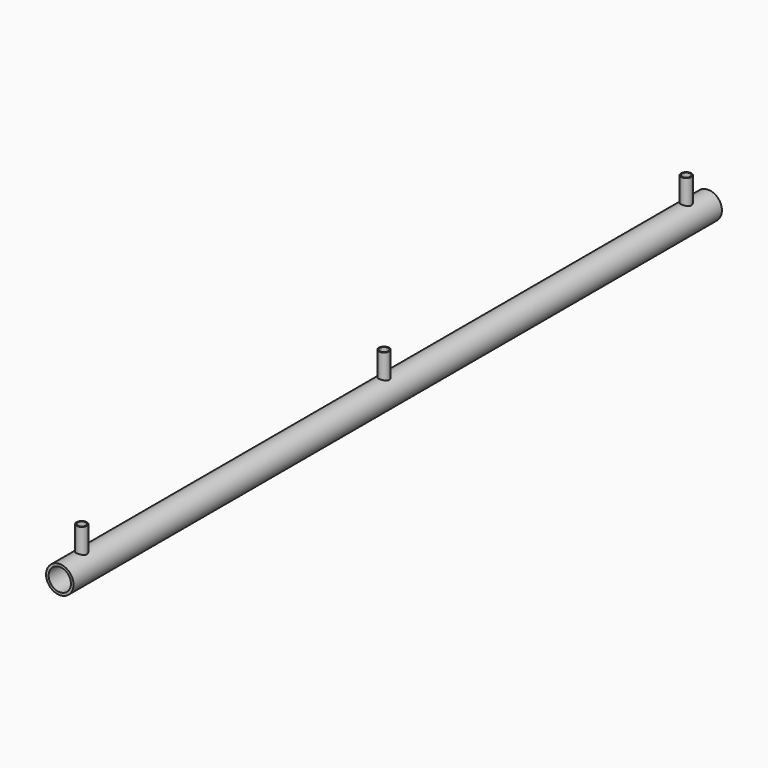
from build123d import *

# Parameters (mm, degrees)
SKETCH012_R   = 10.31875
PAD012_DEPTH  = 750
SKETCH008_R   = 4.7625
SKETCH008_R_2 = 3.8695
PAD008_DEPTH  = 25.4
SKETCH007_R   = 4.7625
SKETCH007_R_2 = 3.8695
PAD007_DEPTH  = 25.4
SKETCH006_R   = 4.7625
SKETCH006_R_2 = 3.8695
PAD006_DEPTH  = 25.4
SKETCH011_R   = 4.7625
PAD011_DEPTH  = 25.4
SKETCH010_R   = 4.7625
PAD010_DEPTH  = 25.4
SKETCH009_R   = 4.7625
PAD009_DEPTH  = 25.4
SKETCH005_R   = 12.7
SKETCH005_R_2 = 10.31875
PAD005_DEPTH  = 750


with BuildPart() as body012:
    # Sketch012 → Pad012 (new body)
    with BuildSketch(Plane.XZ):
        Circle(SKETCH012_R)
    extrude(amount=PAD012_DEPTH)


with BuildPart() as cut005:
    # Sketch008 → Pad008 (new body)
    with BuildSketch(Plane.XY):
        Circle(SKETCH008_R)
        Circle(SKETCH008_R_2, mode=Mode.SUBTRACT)
    extrude(amount=PAD008_DEPTH)


with BuildPart() as cut005_1:
    # Body008 placement: moved
    add(cut005.part.moved(Location((0, -724.6, 9.55))))

    # Cut005: cut Body012
    add(body012.part, mode=Mode.SUBTRACT)


with BuildPart() as cut004:
    # Sketch007 → Pad007 (new body)
    with BuildSketch(Plane.XY):
        Circle(SKETCH007_R)
        Circle(SKETCH007_R_2, mode=Mode.SUBTRACT)
    extrude(amount=PAD007_DEPTH)


with BuildPart() as cut004_1:
    # Body007 placement: moved
    add(cut004.part.moved(Location((0, -375, 9.55))))

    # Cut004: cut Body012
    add(body012.part, mode=Mode.SUBTRACT)


with BuildPart() as cut003:
    # Sketch006 → Pad006 (new body)
    with BuildSketch(Plane.XY):
        Circle(SKETCH006_R)
        Circle(SKETCH006_R_2, mode=Mode.SUBTRACT)
    extrude(amount=PAD006_DEPTH)


with BuildPart() as cut003_1:
    # Body006 placement: moved
    add(cut003.part.moved(Location((0, -25.4, 9.55))))

    # Cut003: cut Body012
    add(body012.part, mode=Mode.SUBTRACT)


with BuildPart() as body011:
    # Sketch011 → Pad011 (new body)
    with BuildSketch(Plane.XY):
        Circle(SKETCH011_R)
    extrude(amount=PAD011_DEPTH)


with BuildPart() as body011_1:
    # Body011 placement: moved
    add(body011.part.moved(Location((0, -724.6, 0))))


with BuildPart() as body010:
    # Sketch010 → Pad010 (new body)
    with BuildSketch(Plane.XY):
        Circle(SKETCH010_R)
    extrude(amount=PAD010_DEPTH)


with BuildPart() as body010_1:
    # Body010 placement: moved
    add(body010.part.moved(Location((0, -375, 0))))


with BuildPart() as body009:
    # Sketch009 → Pad009 (new body)
    with BuildSketch(Plane.XY):
        Circle(SKETCH009_R)
    extrude(amount=PAD009_DEPTH)


with BuildPart() as body009_1:
    # Body009 placement: moved
    add(body009.part.moved(Location((0, -25.4, 0))))


with BuildPart() as fusion:
    # Sketch005 → Pad005 (new body)
    with BuildSketch(Plane.XZ):
        Circle(SKETCH005_R)
        Circle(SKETCH005_R_2, mode=Mode.SUBTRACT)
    extrude(amount=PAD005_DEPTH)

    # Cut: cut Body009
    add(body009_1.part, mode=Mode.SUBTRACT)

    # Cut001: cut Body010
    add(body010_1.part, mode=Mode.SUBTRACT)

    # Cut002: cut Body011
    add(body011_1.part, mode=Mode.SUBTRACT)

    # Fusion: union Cut005, Cut004, Cut003
    add(cut005_1.part)
    add(cut004_1.part)
    add(cut003_1.part)


solid = fusion.part
